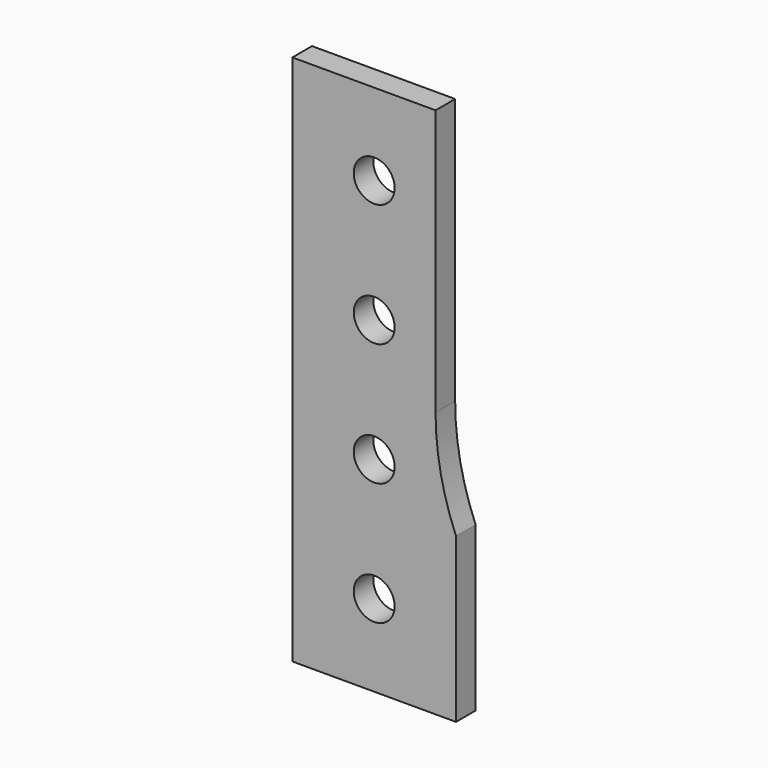
from build123d import *

# Parameters (mm, degrees)
F0_R     = 5
F1_DEPTH = 6


with BuildPart() as f1:
    # F0 (on Front) → F1 (new body)
    with BuildSketch(Plane.XZ):
        with BuildLine():
            Line((0, 130), (0, 0))
            Line((0, 0), (40, 0))
            Line((40, 0), (40, 40))
            ThreePointArc((40, 40), (36.262256, 52.252451), (35, 65))
            Line((35, 65), (35, 130))
            Line((35, 130), (0, 130))
        make_face()
        with Locations((20, 20)):
            Circle(F0_R, mode=Mode.SUBTRACT)
        with Locations((20, 50)):
            Circle(F0_R, mode=Mode.SUBTRACT)
        with Locations((20, 80)):
            Circle(F0_R, mode=Mode.SUBTRACT)
        with Locations((20, 110)):
            Circle(F0_R, mode=Mode.SUBTRACT)
    extrude(amount=F1_DEPTH)


solid = f1.part
